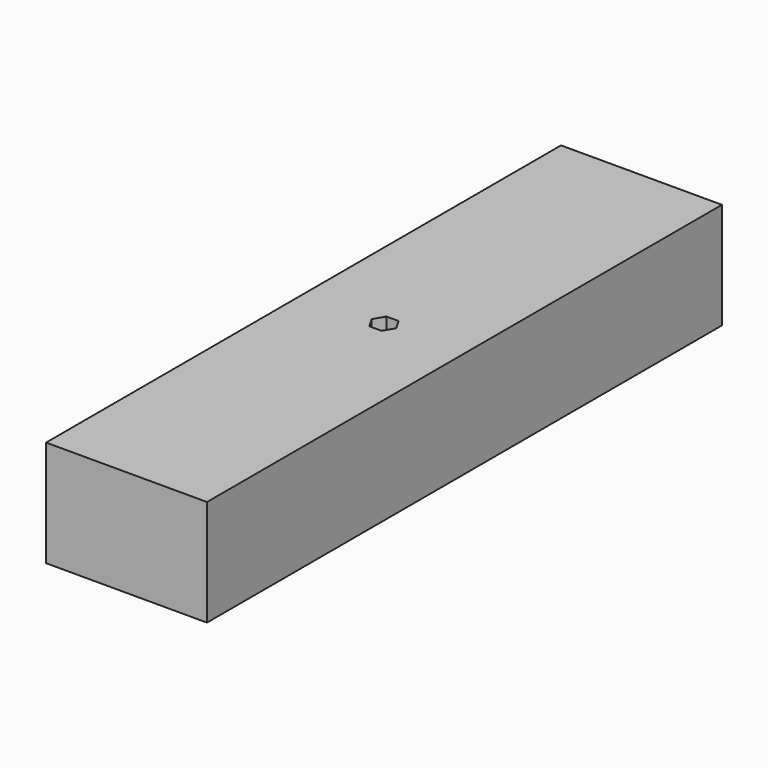
from build123d import *

# Parameters (mm, degrees)
F4_W     = 25
F4_H     = 100
F5_DEPTH = 16.5
F7_START = 7.5
F7_DEPTH = 9


with BuildPart() as f5:
    # F4 (on Top) → F5 (new body)
    with BuildSketch(Plane.XY):
        Rectangle(F4_W, F4_H)
    extrude(amount=F5_DEPTH)

    # F6 (on Top) → F7 (cut)
    with BuildSketch(Plane.XY.offset(F7_START)):
        Polygon((0.9526279442, 1.65), (-0.9526279442, 1.65), (-1.9052558883, 0), (-0.9526279442, -1.65), (0.9526279442, -1.65), (1.9052558883, 0), align=None)
    extrude(amount=F7_DEPTH, mode=Mode.SUBTRACT)


solid = f5.part
